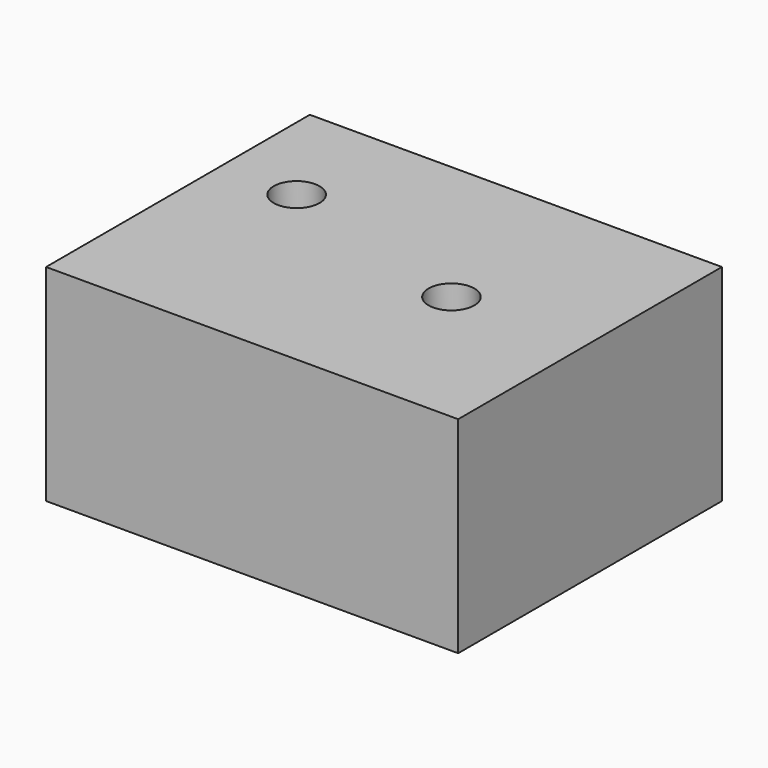
from build123d import *

# Parameters (mm, degrees)
F0_W           = 100
F0_H           = 80
F1_DEPTH       = 50
F3_D           = 5.11
F3_CBORE_D     = 11.11
F3_CBORE_DEPTH = 6.35


with BuildPart() as f1:
    # F0 (on Top) → F1 (new body)
    with BuildSketch(Plane.XY):
        with Locations((0.469463, 24.830001)):
            Rectangle(F0_W, F0_H)
    extrude(amount=F1_DEPTH)

    # F3 (through all)
    with Locations(Plane.XY.offset(50)):
        with Locations((-31.00967, 37.677433), (18.126821, 23.215853)):
            CounterBoreHole(F3_D / 2, F3_CBORE_D / 2, F3_CBORE_DEPTH)


solid = f1.part
